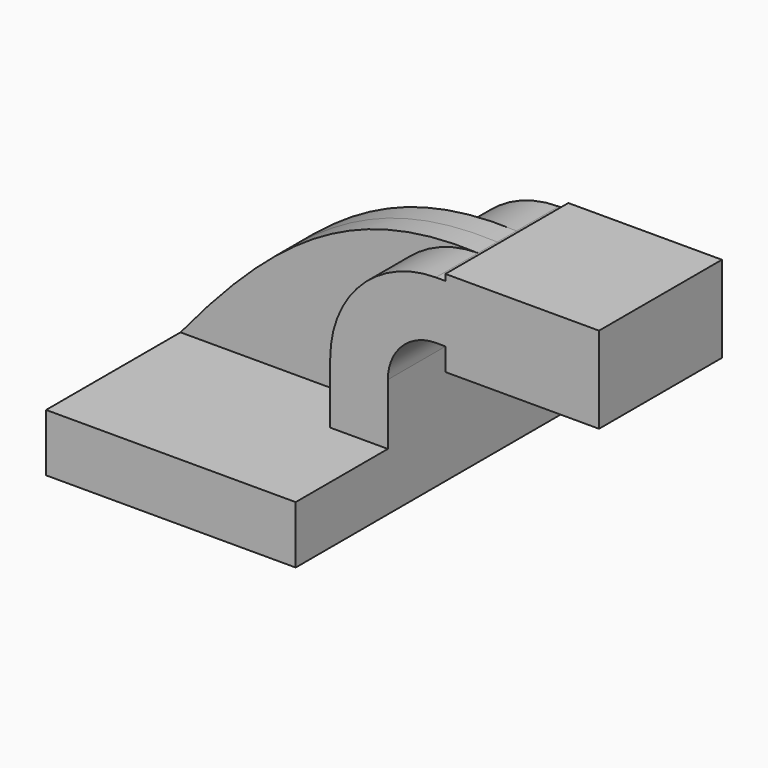
from build123d import *

# Parameters (mm, degrees)
F1_DEPTH = 63.5
F0_W     = 25.4
F0_H     = 19.05
F0_H_2   = 7.4700546124
F0_H_3   = 2.0549453876
F2_DEPTH = 25.4
F3_DEPTH = 7.9375


with BuildPart() as f1:
    # F0 (on Front) → F1 (new body, symmetric)
    with BuildSketch(Plane.XZ):
        Polygon((-41.275, -9.525), (41.275, -9.525), (41.275, 9.525), (22.225, 9.525), (-41.275, 9.525), align=None)
    extrude(amount=F1_DEPTH, both=True)

    # F0 (on Front) → F2 (join, symmetric)
    with BuildSketch(Plane.XZ):
        with BuildLine():
            Line((22.225, 9.525), (41.275, 9.525))
            Line((41.275, 9.525), (41.275, 29.6950546124))
            ThreePointArc((41.275, 29.6950546124), (45.9246798487, 40.9203747637), (57.15, 45.5700546124))
            Line((57.15, 45.5700546124), (60.325, 45.5700546124))
            Line((60.325, 45.5700546124), (60.325, 64.6200546124))
            Line((60.325, 64.6200546124), (57.15, 64.6200546124))
            ThreePointArc((57.15, 64.6200546124), (32.4542956671, 54.3907589453), (22.225, 29.6950546124))
            Line((22.225, 29.6950546124), (22.225, 9.525))
        make_face()
        Polygon((85.725, 66.675), (85.725, 64.6200546124), (85.725, 45.5700546124), (85.725, 38.1), (111.125, 38.1), (111.125, 66.675), align=None)
        with Locations((73.025, 55.0950546124)):
            Rectangle(F0_W, F0_H)
        with Locations((73.025, 41.8350273062)):
            Rectangle(F0_W, F0_H_2)
        with Locations((73.025, 65.6475273062)):
            Rectangle(F0_W, F0_H_3)
    extrude(amount=F2_DEPTH, both=True)

    # F0 (on Front) → F3 (join, symmetric)
    with BuildSketch(Plane.XZ):
        with BuildLine():
            add(Edge.make_bspline(
                [(-41.275, 9.525), (-9.4534000382, 48.0157919228), (16.3796581328, 66.3610100746), (57.15, 64.6200546124)],
                knots=[0, 0, 0, 0, 112.7960356916, 112.7960356916, 112.7960356916, 112.7960356916], degree=3))
            Line((-41.275, 9.525), (22.225, 9.525))
            Line((22.225, 9.525), (22.225, 29.6950546124))
            ThreePointArc((22.225, 29.6950546124), (32.4542956671, 54.3907589453), (57.15, 64.6200546124))
        make_face()
    extrude(amount=F3_DEPTH, both=True)


solid = f1.part
